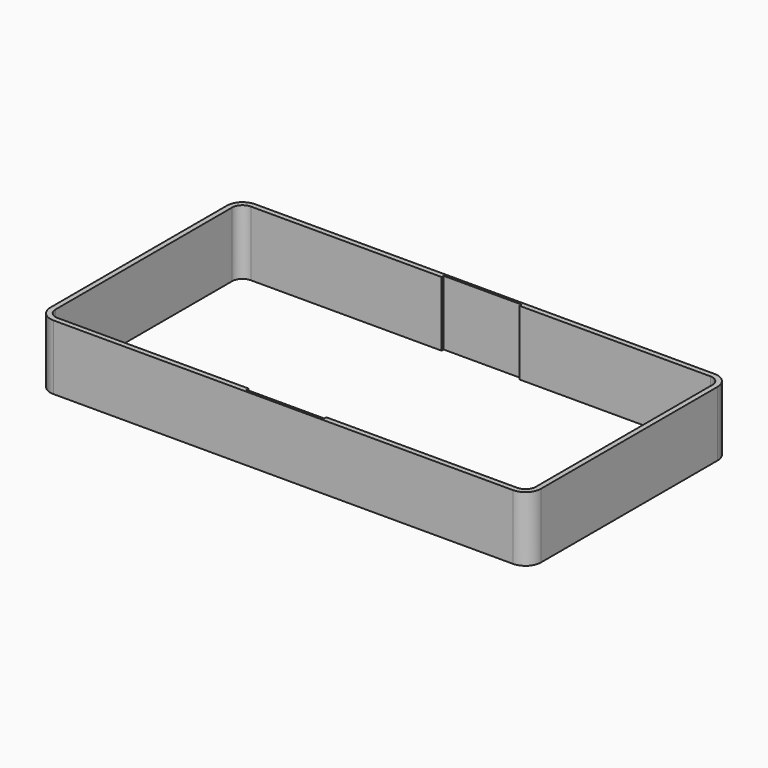
from build123d import *

# Parameters (mm, degrees)
F1_DEPTH = 25


with BuildPart() as f1:
    # F0 (on Top) → F1 (new body)
    with BuildSketch(Plane.XY):
        with BuildLine():
            Line((77.5, 95), (4, 95))
            ThreePointArc((4, 95), (-0.242641, 93.242641), (-2, 89))
            Line((-2, 89), (-2, 4))
            ThreePointArc((-2, 4), (-0.242641, -0.242641), (4, -2))
            Line((4, -2), (77.5, -2))
            Line((77.5, -2), (107.5, -2))
            Line((107.5, -2), (181, -2))
            ThreePointArc((181, -2), (185.242641, -0.242641), (187, 4))
            Line((187, 4), (187, 89))
            ThreePointArc((187, 89), (185.242641, 93.242641), (181, 95))
            Line((181, 95), (107.5, 95))
            Line((107.5, 95), (77.5, 95))
        make_face()
        with BuildLine():
            Line((77.5, 0), (4, 0))
            ThreePointArc((4, 0), (1.171573, 1.171573), (0, 4))
            Line((0, 4), (0, 89))
            ThreePointArc((0, 89), (1.171573, 91.828427), (4, 93))
            Line((4, 93), (77.5, 93))
            Line((77.5, 93), (77.5, 94))
            Line((77.5, 94), (107.5, 94))
            Line((107.5, 94), (107.5, 93))
            Line((107.5, 93), (181, 93))
            ThreePointArc((181, 93), (183.828427, 91.828427), (185, 89))
            Line((185, 89), (185, 4))
            ThreePointArc((185, 4), (183.828427, 1.171573), (181, 0))
            Line((181, 0), (107.5, 0))
            Line((107.5, 0), (107.5, -1))
            Line((107.5, -1), (77.5, -1))
            Line((77.5, -1), (77.5, 0))
        make_face(mode=Mode.SUBTRACT)
    extrude(amount=F1_DEPTH)


solid = f1.part
